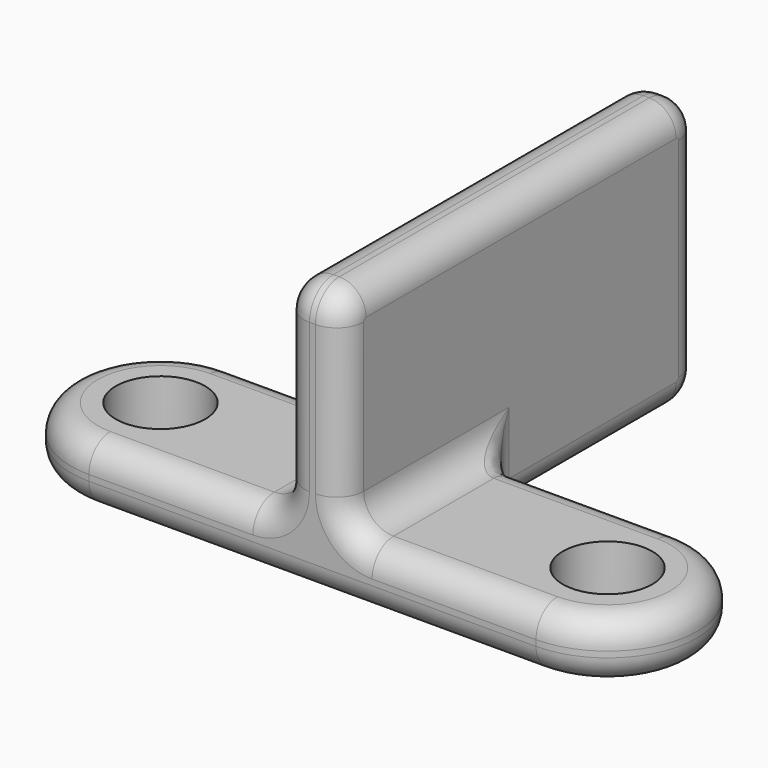
from build123d import *

# Parameters (mm, degrees)
SKETCH_R          = 1.5
PAD_DEPTH         = 2
SKETCH001_W       = 2
SKETCH001_H       = 15
PAD001_DEPTH      = 7
PAD001_DEPTH_BACK = 2
FILLET_R          = 1
FILLET001_R       = 0.9


with BuildPart() as part:
    # Sketch → Pad (new body)
    with BuildSketch(Plane.XY):
        with BuildLine():
            ThreePointArc((-7.5, 3), (-10.5, 0), (-7.5, -3))
            Line((-7.5, -3), (7.5, -3))
            ThreePointArc((7.5, -3), (10.5, 0), (7.5, 3))
            Line((-7.5, 3), (7.5, 3))
        make_face()
        with Locations((-7.5, 0)):
            Circle(SKETCH_R, mode=Mode.SUBTRACT)
        with Locations((7.5, 0)):
            Circle(SKETCH_R, mode=Mode.SUBTRACT)
    extrude(amount=PAD_DEPTH)

    # Sketch001 (on Face8 of Pad) → Pad001 (join, two sides)
    with BuildSketch(Plane.XY.offset(2)) as pad001_sk:
        with Locations((0, 4.5)):
            Rectangle(SKETCH001_W, SKETCH001_H)
    extrude(amount=PAD001_DEPTH)
    extrude(pad001_sk.sketch, amount=-PAD001_DEPTH_BACK)

    # Fillet
    fillet_edges = [part.edges().sort_by_distance(p)[0] for p in [
        (1, 0, 2),
        (-1, 0, 2),
        (0, -3, 9),
        (0, 12, 9),
        (0, 12, 0),
        (1, 3, 1),
        (-1, 3, 1),
    ]]
    fillet(fillet_edges, radius=FILLET_R)

    # Fillet001
    fillet001_edges = [part.edges().sort_by_distance(p)[0] for p in [
        (1, 11.707107, 8.707107),
    ]]
    fillet(fillet001_edges, radius=FILLET001_R)


solid = part.part
